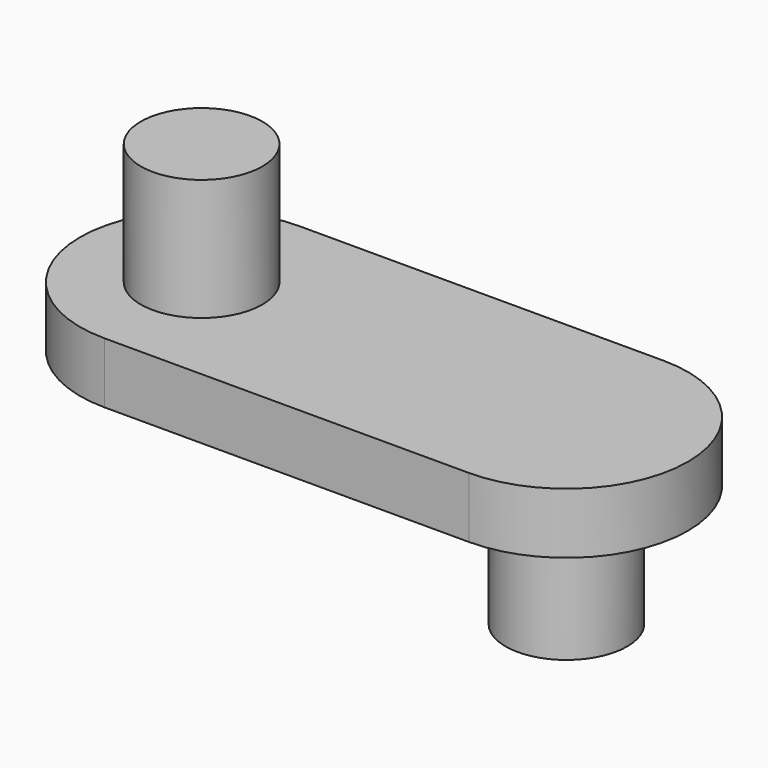
from build123d import *

# Parameters (mm, degrees)
F1_DEPTH = 5
F2_R     = 5
F3_DEPTH = 10
F4_R     = 5
F5_DEPTH = 10


with BuildPart() as f1:
    # F0 (on Top) → F1 (new body)
    with BuildSketch(Plane.XY):
        with BuildLine():
            ThreePointArc((0, -20), (10, -10), (0, 0))
            Line((0, 0), (-30, 0))
            ThreePointArc((-30, 0), (-40, -10), (-30, -20))
            Line((-30, -20), (0, -20))
        make_face()
    extrude(amount=F1_DEPTH)

    # F2 (on Top) → F3 (join)
    with BuildSketch(Plane.XY):
        with Locations((0, -10)):
            Circle(F2_R)
    extrude(amount=-F3_DEPTH)

    # F4 (on face) → F5 (join)
    with BuildSketch(Plane.XY.offset(5)):
        with Locations((-30, -10)):
            Circle(F4_R)
    extrude(amount=F5_DEPTH)


solid = f1.part
